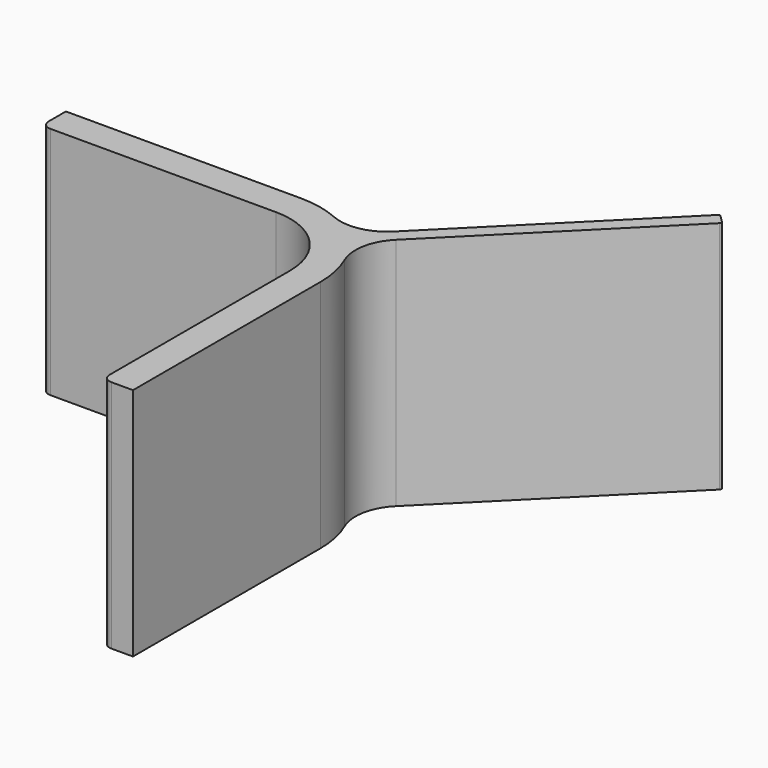
from build123d import *

# Parameters (mm, degrees)
F1_DEPTH = 20


with BuildPart() as f1:
    # F0 (on Top) → F1 (new body)
    with BuildSketch(Plane.XY):
        with BuildLine():
            ThreePointArc((0, 6), (4.242641, 4.242641), (6, 0))
            Line((6, 0), (6, -19.25))
            ThreePointArc((6, -19.25), (6.21967, -19.78033), (6.75, -20))
            Line((6.75, -20), (8.6, -20))
            Line((8.6, -20), (8.6, 0))
            ThreePointArc((8.6, 0), (8.418451, 1.75775), (7.881468, 3.441287))
            ThreePointArc((7.881468, 3.441287), (7.616897, 5.784979), (8.718841, 7.870312))
            Line((8.718841, 7.870312), (24.060858, 23.21233))
            ThreePointArc((24.060858, 23.21233), (24.111472, 23.334524), (24.060858, 23.456718))
            Line((24.060858, 23.456718), (23.758788, 23.758788))
            Line((23.758788, 23.758788), (23.456718, 24.060858))
            ThreePointArc((23.456718, 24.060858), (23.334524, 24.111472), (23.21233, 24.060858))
            Line((23.21233, 24.060858), (7.870312, 8.718841))
            ThreePointArc((7.870312, 8.718841), (5.784979, 7.616897), (3.441287, 7.881468))
            ThreePointArc((3.441287, 7.881468), (1.75775, 8.418451), (0, 8.6))
            Line((0, 8.6), (-20, 8.6))
            Line((-20, 8.6), (-20, 6.75))
            ThreePointArc((-20, 6.75), (-19.78033, 6.21967), (-19.25, 6))
            Line((-19.25, 6), (0, 6))
        make_face()
    extrude(amount=F1_DEPTH)


solid = f1.part
